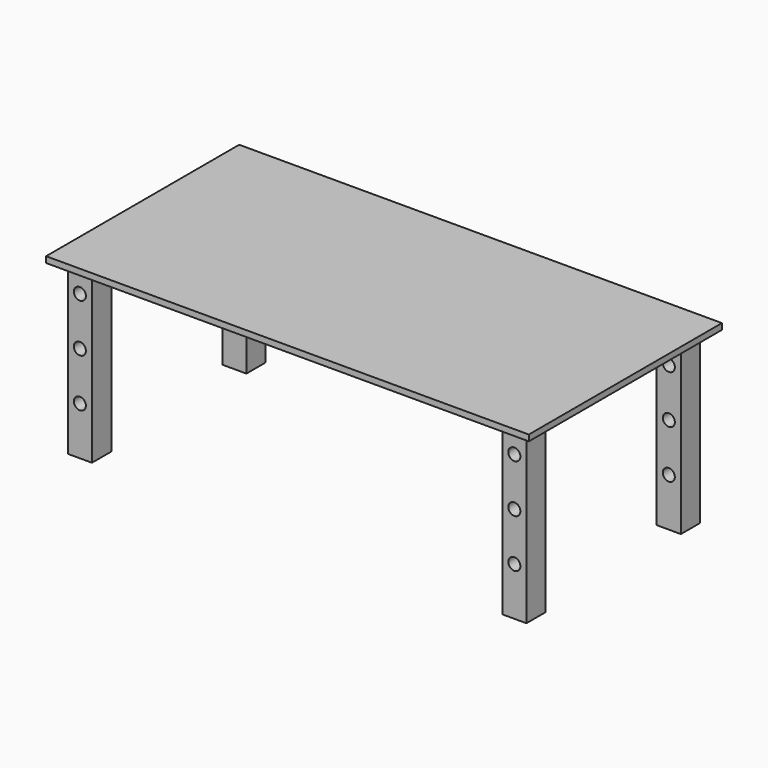
from build123d import *

# Parameters (mm, degrees)
F0_W     = 1000
F0_H     = 500
F1_DEPTH = 25
F2_W     = 100
F2_H     = 100
F3_DEPTH = 700
F5_D     = 50
F7_D     = 50
F9_D     = 50


with BuildPart() as f1:
    # F0 (on Top) → F1 (new body)
    with BuildSketch(Plane.XY):
        with Locations((3.7799999118, 20.495297656)):
            Rectangle(F0_W, F0_H)
    extrude(amount=F1_DEPTH)

    # F2 (on face) → F3 (join)
    with BuildSketch(Plane(origin=(0, 0, 0), x_dir=(1, 0, 0), z_dir=(0, 0, -1))):
        with Locations((-396.2200000882, 129.504702344)):
            Rectangle(F2_W, F2_H)
    extrude(amount=F3_DEPTH)

    # F5 (through all)
    with Locations(Plane.XZ.offset(179.504702344)):
        with Locations((-396.2200000882, -500)):
            Hole(F5_D / 2)

    # F7 (through all)
    with Locations(Plane.XZ.offset(179.504702344)):
        with Locations((-396.2200000882, -300)):
            Hole(F7_D / 2)

    # F9 (through all)
    with Locations(Plane.XZ.offset(179.504702344)):
        with Locations((-396.2200000882, -100)):
            Hole(F9_D / 2)

    # F12: F1 across plane


with BuildPart() as f1_1:
    add(f1.part)
    add(f1.part.mirror(Plane(origin=(3.7799999118, 270.495297656, 12.5), x_dir=(-1, 0, 0), z_dir=(0, 1, 0))))

    # F14: F1 across plane


with BuildPart() as f1_2:
    add(f1_1.part)
    add(f1_1.part.mirror(Plane(origin=(503.7799999118, 270.495297656, 12.5), x_dir=(0, 1, 0), z_dir=(1, 0, 0))))


solid = f1_2.part
